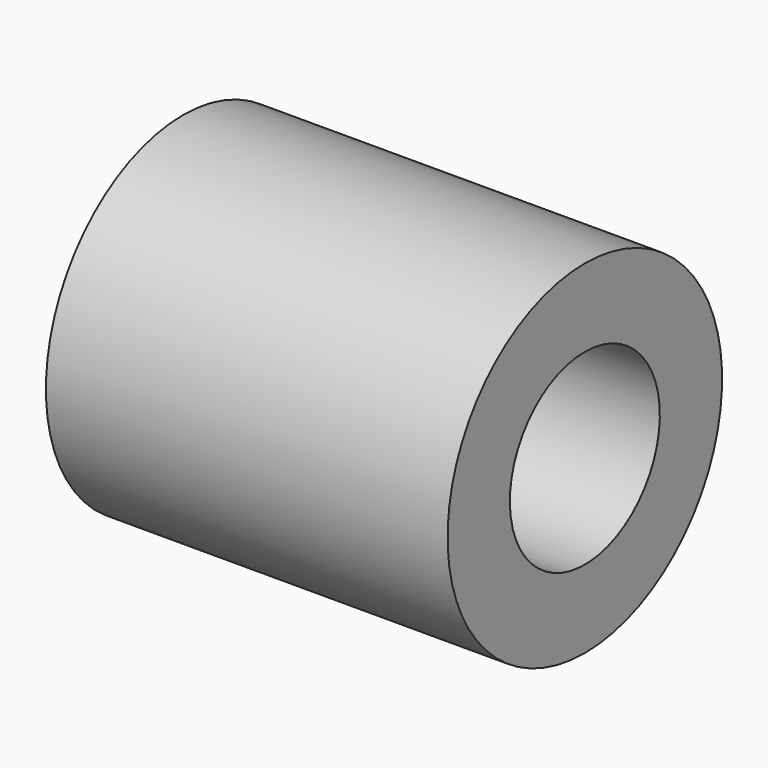
from build123d import *

# Parameters (mm, degrees)
F0_W = 1524
F0_H = 180.975


with BuildPart() as f1:
    # F0 (on Front) → F1 (revolve)
    with BuildSketch(Plane.XZ):
        Polygon((875.440947, 469.9), (-648.559053, 469.9), (-648.559053, 241.3), (-597.759053, 215.9), (-527.909053, 215.9), (-527.909053, 152.4), (-375.509053, 152.4), (-299.309053, 190.5), (-299.309053, 355.6), (875.440947, 355.6), align=None)
        with Locations((113.440947, 560.3875)):
            Rectangle(F0_W, F0_H)
    revolve(axis=Axis((113.440947, 0, 0), (1, 0, 0)))


solid = f1.part
